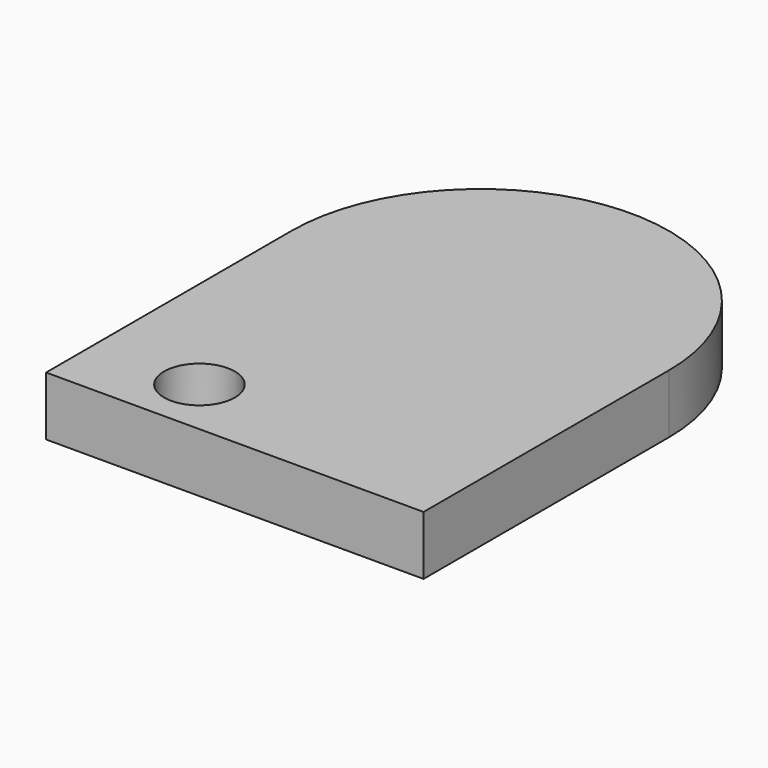
from build123d import *

# Parameters (mm, degrees)
CYLINDER009_R     = 3
CYLINDER009_DEPTH = 10
BOX003_W          = 32
BOX003_H          = 26
BOX003_DEPTH      = 5
CYLINDER008_R     = 16
CYLINDER008_DEPTH = 5


with BuildPart() as cilindro002:
    # Cylinder009 → Cylinder009 (new body)
    with BuildSketch(Plane(origin=(40, 37, 28), x_dir=(1, 0, 0), z_dir=(0, 0, 1))):
        Circle(CYLINDER009_R)
    extrude(amount=CYLINDER009_DEPTH)


with BuildPart() as cubo002:
    # Box003 → Box003 (new body)
    with BuildSketch(Plane(origin=(3, -8, 30), x_dir=(1, 0, 0), z_dir=(0, 0, 1))):
        with Locations((16, 13)):
            Rectangle(BOX003_W, BOX003_H)
    extrude(amount=BOX003_DEPTH)


with BuildPart() as tapa:
    # Cylinder008 → Cylinder008 (new body)
    with BuildSketch(Plane(origin=(19, 18, 30), x_dir=(1, 0, 0), z_dir=(0, 0, 1))):
        Circle(CYLINDER008_R)
    extrude(amount=CYLINDER008_DEPTH)

    # Fusion003: union Cubo002
    add(cubo002.part)


with BuildPart() as tapa_1:
    # Fusion003 placement: moved
    add(tapa.part.moved(Location((28, 40, 3))))

    # Cut010: cut Cilindro002
    add(cilindro002.part, mode=Mode.SUBTRACT)


solid = tapa_1.part
